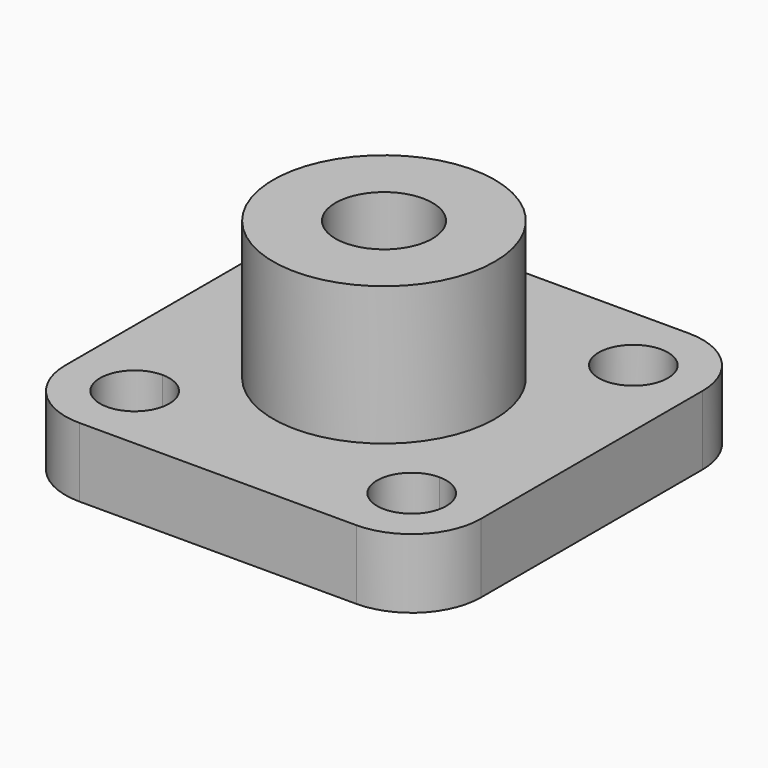
from build123d import *

# Parameters (mm, degrees)
F1_DEPTH = 10
F2_R     = 16
F3_DEPTH = 20
F4_D     = 14
F4_DEPTH = 31
F4_TIP   = 4.2060243332
F5_ANGLE = -90


with BuildPart() as f1:
    # F0 (on Front) → F1 (new body)
    with BuildSketch(Plane.XZ):
        with BuildLine():
            Line((20, 30), (-20, 30))
            ThreePointArc((-20, 30), (-27.0710678119, 27.0710678119), (-30, 20))
            Line((-30, 20), (-30, -20))
            ThreePointArc((-30, -20), (-27.0710678119, -27.0710678119), (-20, -30))
            Line((-20, -30), (20, -30))
            ThreePointArc((20, -30), (27.0710678119, -27.0710678119), (30, -20))
            Line((30, -20), (30, 20))
            ThreePointArc((30, 20), (27.0710678119, 27.0710678119), (20, 30))
        make_face()
        with BuildLine():
            ThreePointArc((-15, -20), (-23.5355339059, -23.5355339059), (-20, -15))
            ThreePointArc((-20, -15), (-16.4644660941, -16.4644660941), (-15, -20))
        make_face(mode=Mode.SUBTRACT)
        with BuildLine():
            ThreePointArc((25, -20), (16.4644660941, -23.5355339059), (20, -15))
            ThreePointArc((20, -15), (23.5355339059, -16.4644660941), (25, -20))
        make_face(mode=Mode.SUBTRACT)
        with BuildLine():
            ThreePointArc((-15, 20), (-16.4644660941, 16.4644660941), (-20, 15))
            ThreePointArc((-20, 15), (-23.5355339059, 23.5355339059), (-15, 20))
        make_face(mode=Mode.SUBTRACT)
        with BuildLine():
            ThreePointArc((-16, 0), (0, 16), (16, 0))
            ThreePointArc((16, 0), (0, -16), (-16, 0))
        make_face(mode=Mode.SUBTRACT)
        with BuildLine():
            ThreePointArc((25, 20), (23.5355339059, 16.4644660941), (20, 15))
            ThreePointArc((20, 15), (16.4644660941, 23.5355339059), (25, 20))
        make_face(mode=Mode.SUBTRACT)
        with BuildLine():
            Line((20, 30), (-20, 30))
            ThreePointArc((-20, 30), (-27.0710678119, 27.0710678119), (-30, 20))
            Line((-30, 20), (-30, -20))
            ThreePointArc((-30, -20), (-27.0710678119, -27.0710678119), (-20, -30))
            Line((-20, -30), (20, -30))
            ThreePointArc((20, -30), (27.0710678119, -27.0710678119), (30, -20))
            Line((30, -20), (30, 20))
            ThreePointArc((30, 20), (27.0710678119, 27.0710678119), (20, 30))
        make_face()
        with BuildLine():
            ThreePointArc((-15, -20), (-23.5355339059, -23.5355339059), (-20, -15))
            ThreePointArc((-20, -15), (-16.4644660941, -16.4644660941), (-15, -20))
        make_face(mode=Mode.SUBTRACT)
        with BuildLine():
            ThreePointArc((25, -20), (16.4644660941, -23.5355339059), (20, -15))
            ThreePointArc((20, -15), (23.5355339059, -16.4644660941), (25, -20))
        make_face(mode=Mode.SUBTRACT)
        with BuildLine():
            ThreePointArc((-15, 20), (-16.4644660941, 16.4644660941), (-20, 15))
            ThreePointArc((-20, 15), (-23.5355339059, 23.5355339059), (-15, 20))
        make_face(mode=Mode.SUBTRACT)
        with BuildLine():
            ThreePointArc((-16, 0), (0, 16), (16, 0))
            ThreePointArc((16, 0), (0, -16), (-16, 0))
        make_face(mode=Mode.SUBTRACT)
        with BuildLine():
            ThreePointArc((25, 20), (23.5355339059, 16.4644660941), (20, 15))
            ThreePointArc((20, 15), (16.4644660941, 23.5355339059), (25, 20))
        make_face(mode=Mode.SUBTRACT)
        with BuildLine():
            Line((20, 30), (-20, 30))
            ThreePointArc((-20, 30), (-27.0710678119, 27.0710678119), (-30, 20))
            Line((-30, 20), (-30, -20))
            ThreePointArc((-30, -20), (-27.0710678119, -27.0710678119), (-20, -30))
            Line((-20, -30), (20, -30))
            ThreePointArc((20, -30), (27.0710678119, -27.0710678119), (30, -20))
            Line((30, -20), (30, 20))
            ThreePointArc((30, 20), (27.0710678119, 27.0710678119), (20, 30))
        make_face()
        with BuildLine():
            ThreePointArc((-15, -20), (-23.5355339059, -23.5355339059), (-20, -15))
            ThreePointArc((-20, -15), (-16.4644660941, -16.4644660941), (-15, -20))
        make_face(mode=Mode.SUBTRACT)
        with BuildLine():
            ThreePointArc((25, -20), (16.4644660941, -23.5355339059), (20, -15))
            ThreePointArc((20, -15), (23.5355339059, -16.4644660941), (25, -20))
        make_face(mode=Mode.SUBTRACT)
        with BuildLine():
            ThreePointArc((-15, 20), (-16.4644660941, 16.4644660941), (-20, 15))
            ThreePointArc((-20, 15), (-23.5355339059, 23.5355339059), (-15, 20))
        make_face(mode=Mode.SUBTRACT)
        with BuildLine():
            ThreePointArc((-16, 0), (0, 16), (16, 0))
            ThreePointArc((16, 0), (0, -16), (-16, 0))
        make_face(mode=Mode.SUBTRACT)
        with BuildLine():
            ThreePointArc((25, 20), (23.5355339059, 16.4644660941), (20, 15))
            ThreePointArc((20, 15), (16.4644660941, 23.5355339059), (25, 20))
        make_face(mode=Mode.SUBTRACT)
        with BuildLine():
            Line((20, 30), (-20, 30))
            ThreePointArc((-20, 30), (-27.0710678119, 27.0710678119), (-30, 20))
            Line((-30, 20), (-30, -20))
            ThreePointArc((-30, -20), (-27.0710678119, -27.0710678119), (-20, -30))
            Line((-20, -30), (20, -30))
            ThreePointArc((20, -30), (27.0710678119, -27.0710678119), (30, -20))
            Line((30, -20), (30, 20))
            ThreePointArc((30, 20), (27.0710678119, 27.0710678119), (20, 30))
        make_face()
        with BuildLine():
            ThreePointArc((-15, -20), (-23.5355339059, -23.5355339059), (-20, -15))
            ThreePointArc((-20, -15), (-16.4644660941, -16.4644660941), (-15, -20))
        make_face(mode=Mode.SUBTRACT)
        with BuildLine():
            ThreePointArc((25, -20), (16.4644660941, -23.5355339059), (20, -15))
            ThreePointArc((20, -15), (23.5355339059, -16.4644660941), (25, -20))
        make_face(mode=Mode.SUBTRACT)
        with BuildLine():
            ThreePointArc((-15, 20), (-16.4644660941, 16.4644660941), (-20, 15))
            ThreePointArc((-20, 15), (-23.5355339059, 23.5355339059), (-15, 20))
        make_face(mode=Mode.SUBTRACT)
        with BuildLine():
            ThreePointArc((-16, 0), (0, 16), (16, 0))
            ThreePointArc((16, 0), (0, -16), (-16, 0))
        make_face(mode=Mode.SUBTRACT)
        with BuildLine():
            ThreePointArc((25, 20), (23.5355339059, 16.4644660941), (20, 15))
            ThreePointArc((20, 15), (16.4644660941, 23.5355339059), (25, 20))
        make_face(mode=Mode.SUBTRACT)
        with BuildLine():
            Line((20, 30), (-20, 30))
            ThreePointArc((-20, 30), (-27.0710678119, 27.0710678119), (-30, 20))
            Line((-30, 20), (-30, -20))
            ThreePointArc((-30, -20), (-27.0710678119, -27.0710678119), (-20, -30))
            Line((-20, -30), (20, -30))
            ThreePointArc((20, -30), (27.0710678119, -27.0710678119), (30, -20))
            Line((30, -20), (30, 20))
            ThreePointArc((30, 20), (27.0710678119, 27.0710678119), (20, 30))
        make_face()
        with BuildLine():
            ThreePointArc((-15, -20), (-23.5355339059, -23.5355339059), (-20, -15))
            ThreePointArc((-20, -15), (-16.4644660941, -16.4644660941), (-15, -20))
        make_face(mode=Mode.SUBTRACT)
        with BuildLine():
            ThreePointArc((25, -20), (16.4644660941, -23.5355339059), (20, -15))
            ThreePointArc((20, -15), (23.5355339059, -16.4644660941), (25, -20))
        make_face(mode=Mode.SUBTRACT)
        with BuildLine():
            ThreePointArc((-15, 20), (-16.4644660941, 16.4644660941), (-20, 15))
            ThreePointArc((-20, 15), (-23.5355339059, 23.5355339059), (-15, 20))
        make_face(mode=Mode.SUBTRACT)
        with BuildLine():
            ThreePointArc((-16, 0), (0, 16), (16, 0))
            ThreePointArc((16, 0), (0, -16), (-16, 0))
        make_face(mode=Mode.SUBTRACT)
        with BuildLine():
            ThreePointArc((25, 20), (23.5355339059, 16.4644660941), (20, 15))
            ThreePointArc((20, 15), (16.4644660941, 23.5355339059), (25, 20))
        make_face(mode=Mode.SUBTRACT)
        with BuildLine():
            Line((20, 30), (-20, 30))
            ThreePointArc((-20, 30), (-27.0710678119, 27.0710678119), (-30, 20))
            Line((-30, 20), (-30, -20))
            ThreePointArc((-30, -20), (-27.0710678119, -27.0710678119), (-20, -30))
            Line((-20, -30), (20, -30))
            ThreePointArc((20, -30), (27.0710678119, -27.0710678119), (30, -20))
            Line((30, -20), (30, 20))
            ThreePointArc((30, 20), (27.0710678119, 27.0710678119), (20, 30))
        make_face()
        with BuildLine():
            ThreePointArc((-15, -20), (-23.5355339059, -23.5355339059), (-20, -15))
            ThreePointArc((-20, -15), (-16.4644660941, -16.4644660941), (-15, -20))
        make_face(mode=Mode.SUBTRACT)
        with BuildLine():
            ThreePointArc((25, -20), (16.4644660941, -23.5355339059), (20, -15))
            ThreePointArc((20, -15), (23.5355339059, -16.4644660941), (25, -20))
        make_face(mode=Mode.SUBTRACT)
        with BuildLine():
            ThreePointArc((-15, 20), (-16.4644660941, 16.4644660941), (-20, 15))
            ThreePointArc((-20, 15), (-23.5355339059, 23.5355339059), (-15, 20))
        make_face(mode=Mode.SUBTRACT)
        with BuildLine():
            ThreePointArc((-16, 0), (0, 16), (16, 0))
            ThreePointArc((16, 0), (0, -16), (-16, 0))
        make_face(mode=Mode.SUBTRACT)
        with BuildLine():
            ThreePointArc((25, 20), (23.5355339059, 16.4644660941), (20, 15))
            ThreePointArc((20, 15), (16.4644660941, 23.5355339059), (25, 20))
        make_face(mode=Mode.SUBTRACT)
        with BuildLine():
            Line((20, 30), (-20, 30))
            ThreePointArc((-20, 30), (-27.0710678119, 27.0710678119), (-30, 20))
            Line((-30, 20), (-30, -20))
            ThreePointArc((-30, -20), (-27.0710678119, -27.0710678119), (-20, -30))
            Line((-20, -30), (20, -30))
            ThreePointArc((20, -30), (27.0710678119, -27.0710678119), (30, -20))
            Line((30, -20), (30, 20))
            ThreePointArc((30, 20), (27.0710678119, 27.0710678119), (20, 30))
        make_face()
        with BuildLine():
            ThreePointArc((-15, -20), (-23.5355339059, -23.5355339059), (-20, -15))
            ThreePointArc((-20, -15), (-16.4644660941, -16.4644660941), (-15, -20))
        make_face(mode=Mode.SUBTRACT)
        with BuildLine():
            ThreePointArc((25, -20), (16.4644660941, -23.5355339059), (20, -15))
            ThreePointArc((20, -15), (23.5355339059, -16.4644660941), (25, -20))
        make_face(mode=Mode.SUBTRACT)
        with BuildLine():
            ThreePointArc((-15, 20), (-16.4644660941, 16.4644660941), (-20, 15))
            ThreePointArc((-20, 15), (-23.5355339059, 23.5355339059), (-15, 20))
        make_face(mode=Mode.SUBTRACT)
        with BuildLine():
            ThreePointArc((-16, 0), (0, 16), (16, 0))
            ThreePointArc((16, 0), (0, -16), (-16, 0))
        make_face(mode=Mode.SUBTRACT)
        with BuildLine():
            ThreePointArc((25, 20), (23.5355339059, 16.4644660941), (20, 15))
            ThreePointArc((20, 15), (16.4644660941, 23.5355339059), (25, 20))
        make_face(mode=Mode.SUBTRACT)
        with BuildLine():
            Line((20, 30), (-20, 30))
            ThreePointArc((-20, 30), (-27.0710678119, 27.0710678119), (-30, 20))
            Line((-30, 20), (-30, -20))
            ThreePointArc((-30, -20), (-27.0710678119, -27.0710678119), (-20, -30))
            Line((-20, -30), (20, -30))
            ThreePointArc((20, -30), (27.0710678119, -27.0710678119), (30, -20))
            Line((30, -20), (30, 20))
            ThreePointArc((30, 20), (27.0710678119, 27.0710678119), (20, 30))
        make_face()
        with BuildLine():
            ThreePointArc((-15, -20), (-23.5355339059, -23.5355339059), (-20, -15))
            ThreePointArc((-20, -15), (-16.4644660941, -16.4644660941), (-15, -20))
        make_face(mode=Mode.SUBTRACT)
        with BuildLine():
            ThreePointArc((25, -20), (16.4644660941, -23.5355339059), (20, -15))
            ThreePointArc((20, -15), (23.5355339059, -16.4644660941), (25, -20))
        make_face(mode=Mode.SUBTRACT)
        with BuildLine():
            ThreePointArc((-15, 20), (-16.4644660941, 16.4644660941), (-20, 15))
            ThreePointArc((-20, 15), (-23.5355339059, 23.5355339059), (-15, 20))
        make_face(mode=Mode.SUBTRACT)
        with BuildLine():
            ThreePointArc((-16, 0), (0, 16), (16, 0))
            ThreePointArc((16, 0), (0, -16), (-16, 0))
        make_face(mode=Mode.SUBTRACT)
        with BuildLine():
            ThreePointArc((25, 20), (23.5355339059, 16.4644660941), (20, 15))
            ThreePointArc((20, 15), (16.4644660941, 23.5355339059), (25, 20))
        make_face(mode=Mode.SUBTRACT)
        with BuildLine():
            ThreePointArc((-16, 0), (0, -16), (16, 0))
            Line((16, 0), (0, 0))
            Line((0, 0), (-16, 0))
        make_face()
        with BuildLine():
            Line((0, 0), (16, 0))
            ThreePointArc((16, 0), (0, 16), (-16, 0))
            Line((-16, 0), (0, 0))
        make_face()
    extrude(amount=F1_DEPTH)

    # F2 (on face) → F3 (join)
    with BuildSketch(Plane.XZ.offset(10)):
        Circle(F2_R)
    extrude(amount=F3_DEPTH)

    # F4
    with Locations(Plane(origin=(0, 0, 0), x_dir=(1, 0, 0), z_dir=(0, 1, 0))):
        with Locations((0, 0)):
            Hole(F4_D / 2, depth=F4_DEPTH)
            with Locations((0, 0, -(F4_DEPTH + F4_TIP / 2))):  # 118° drill point
                Cone(0, F4_D / 2, F4_TIP, mode=Mode.SUBTRACT)


with BuildPart() as f1_1:
    # F5: moved
    add(f1.part.rotate(Axis((10, 0, 0), (1, 0, 0)), F5_ANGLE))


solid = f1_1.part
